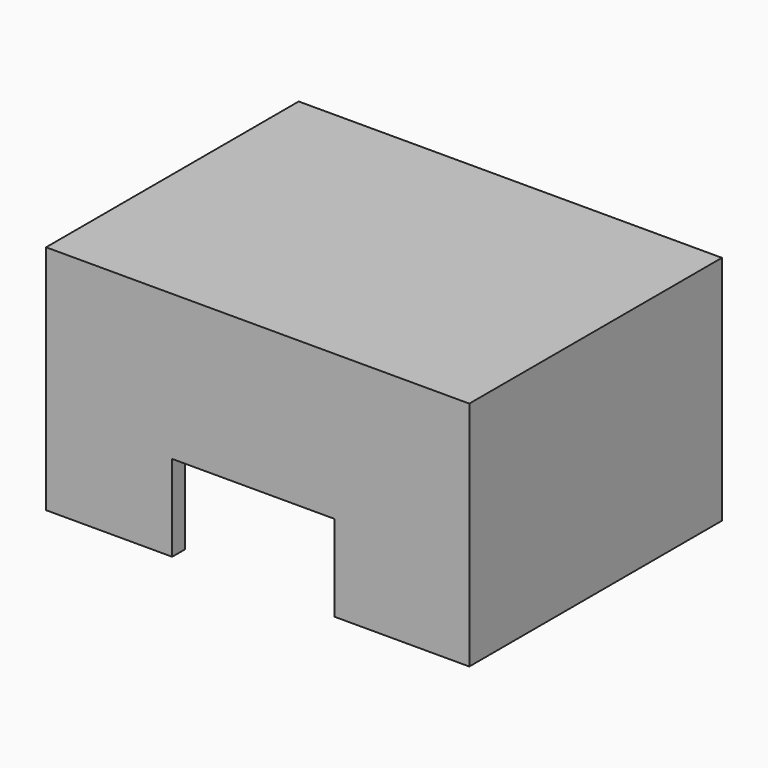
from build123d import *

# Parameters (mm, degrees)
F1_DEPTH = 25
F2_T     = -2.5


with BuildPart() as f1:
    # F0 (on Front) → F1 (new body, symmetric)
    with BuildSketch(Plane.XZ):
        Polygon((33.765722, 23.008151), (-33.244941, 23.008151), (-33.244941, -13.642579), (-13.2785, -13.642579), (-13.2785, 0), (12.431712, 0), (12.431712, -13.642579), (33.765722, -13.642579), align=None)
    extrude(amount=F1_DEPTH, both=True)

    # F2
    f2_openings = [f1.faces().sort_by_distance(p)[0] for p in [
        (-0.423394, 0, 0),
        (23.098717, 0, -13.642579),
        (-23.261721, 0, -13.642579),
        (-13.2785, 0, -6.82129),
        (12.431712, 0, -6.82129),
    ]]
    offset(amount=F2_T, openings=f2_openings)


solid = f1.part
